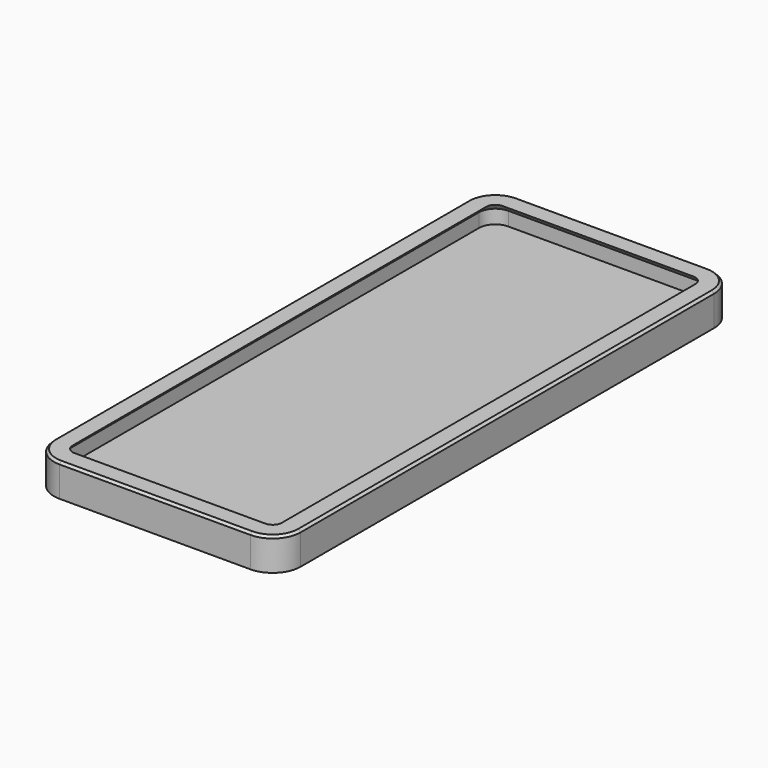
from build123d import *

# Parameters (mm, degrees)
F0_W     = 53
F0_H     = 123
F1_DEPTH = 7
F2_R     = 6
F3_SIZE  = 0.5
F4_T     = -2.5


with BuildPart() as f1:
    # F0 (on Top) → F1 (new body)
    with BuildSketch(Plane.XY):
        Rectangle(F0_W, F0_H)
    extrude(amount=F1_DEPTH)

    # F2
    f2_edges = [f1.edges().sort_by_distance(p)[0] for p in [
        (26.5, 61.5, 3.5),
        (-26.5, 61.5, 3.5),
        (26.5, -61.5, 3.5),
        (-26.5, -61.5, 3.5),
    ]]
    fillet(f2_edges, radius=F2_R)

    # F3
    f3_edges = [f1.edges().sort_by_distance(p)[0] for p in [
        (-26.5, 0, 7),
        (-24.742641, -59.742641, 7),
        (0, -61.5, 7),
        (24.742641, -59.742641, 7),
        (26.5, 0, 7),
        (24.742641, 59.742641, 7),
        (0, 61.5, 7),
        (-24.742641, 59.742641, 7),
    ]]
    chamfer(f3_edges, length=F3_SIZE)

    # F4
    f4_openings = [f1.faces().sort_by_distance(p)[0] for p in [
        (0, 0, 7),
    ]]
    offset(amount=F4_T, openings=f4_openings)


solid = f1.part
